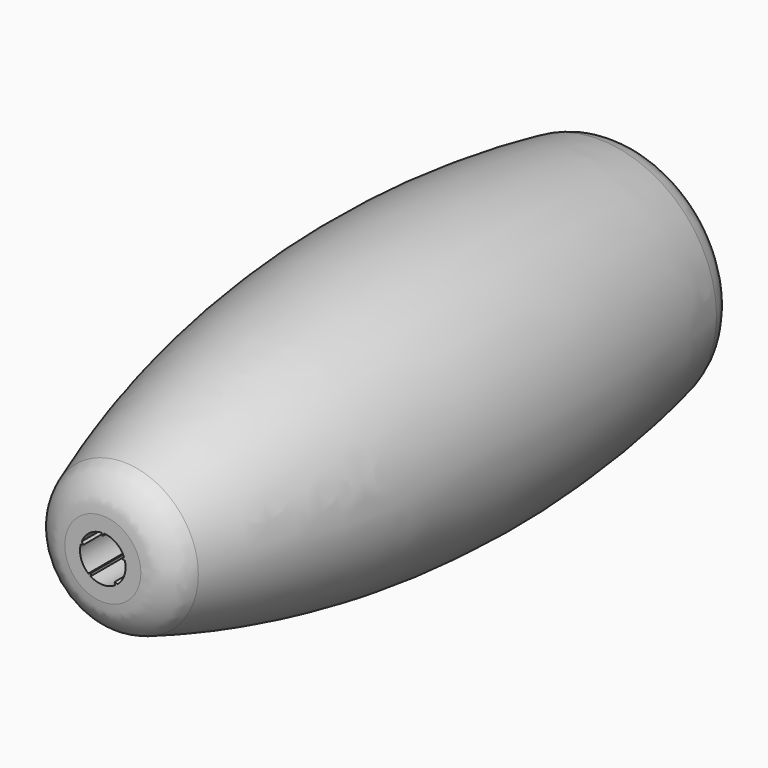
from build123d import *

# Parameters (mm, degrees)
F3_DEPTH = 88.9
F4_R     = 6


with BuildPart() as f1:
    # F0 (on Top) → F1 (revolve)
    with BuildSketch(Plane.XY):
        with BuildLine():
            Line((0, 100), (0, 0))
            Line((0, 0), (10, 0))
            ThreePointArc((10, 0), (21.038486, 49.472306), (17, 100))
            Line((17, 100), (0, 100))
        make_face()
    revolve(axis=Axis((0, 50, 0), (0, 1, 0)))

    # F2 (on face) → F3 (cut)
    with BuildSketch(Plane.XZ):
        with BuildLine():
            Line((0, 3.1), (-0.226697, 3.492651))
            ThreePointArc((-0.226697, 3.492651), (-2.057248, 2.831559), (-3.251655, 1.29489))
            Line((-3.251655, 1.29489), (-2.948275, 0.957953))
            Line((-2.948275, 0.957953), (-3.391761, 0.863687))
            ThreePointArc((-3.391761, 0.863687), (-3.328698, -1.081559), (-2.23633, -2.692365))
            Line((-2.23633, -2.692365), (-1.822134, -2.507953))
            Line((-1.822134, -2.507953), (-1.869527, -2.958863))
            ThreePointArc((-1.869527, -2.958863), (0, -3.5), (1.869527, -2.958863))
            Line((1.869527, -2.958863), (1.822134, -2.507953))
            Line((1.822134, -2.507953), (2.23633, -2.692365))
            ThreePointArc((2.23633, -2.692365), (3.328698, -1.081559), (3.391761, 0.863687))
            Line((3.391761, 0.863687), (2.948275, 0.957953))
            Line((2.948275, 0.957953), (3.251655, 1.29489))
            ThreePointArc((3.251655, 1.29489), (2.057248, 2.831559), (0.226697, 3.492651))
            Line((0.226697, 3.492651), (0, 3.1))
        make_face()
    extrude(amount=-F3_DEPTH, mode=Mode.SUBTRACT)

    # F4
    f4_edges = [f1.edges().sort_by_distance(p)[0] for p in [
        (-10, 0, 0),
        (-17, 100, 0),
    ]]
    fillet(f4_edges, radius=F4_R)


solid = f1.part
